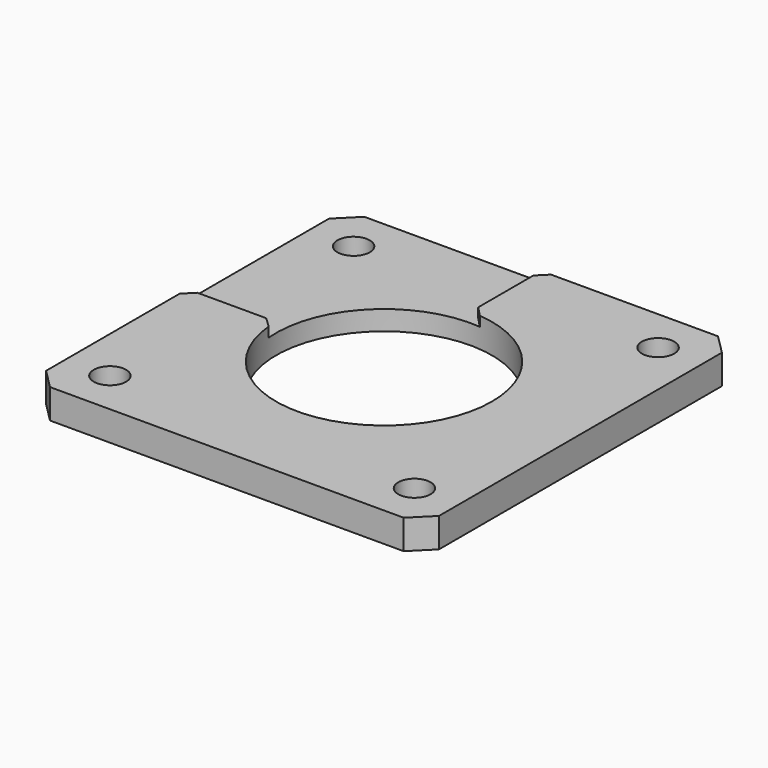
from build123d import *

# Parameters (mm, degrees)
SKETCH_W        = 40
SKETCH_H        = 40
PAD_DEPTH       = 3
SKETCH001_R     = 10.99
SKETCH001_R_2   = 1.65
POCKET_DEPTH    = 5
SKETCH003_W     = 37.54295
SKETCH003_H     = 30.927837
POCKET001_DEPTH = 1
CHAMFER_SIZE    = 2
CHAMFER001_SIZE = 1


with BuildPart() as part:
    # Sketch → Pad (new body)
    with BuildSketch(Plane.XY):
        Rectangle(SKETCH_W, SKETCH_H)
    extrude(amount=PAD_DEPTH)

    # Sketch001 (on Face6 of Pad) → Pocket (cut)
    with BuildSketch(Plane.XY.offset(3)):
        Circle(SKETCH001_R)
        with Locations((-15.5, 15.5)):
            Circle(SKETCH001_R_2)
        with Locations((15.5, 15.5)):
            Circle(SKETCH001_R_2)
        with Locations((-15.5, -15.5)):
            Circle(SKETCH001_R_2)
        with Locations((15.5, -15.5)):
            Circle(SKETCH001_R_2)
    extrude(amount=-POCKET_DEPTH, mode=Mode.SUBTRACT)

    # Sketch003 (on Face5 of Pocket) → Pocket001 (cut)
    with BuildSketch(Plane.XY.offset(3)):
        with Locations((-18.771475, 15.463919)):
            Rectangle(SKETCH003_W, SKETCH003_H)
    extrude(amount=-POCKET001_DEPTH, mode=Mode.SUBTRACT)

    # Chamfer
    chamfer_edges = [part.edges().sort_by_distance(p)[0] for p in [
        (-20, -20, 1.5),
        (20, -20, 1.5),
        (20, 20, 1.5),
        (-20, 20, 1),
    ]]
    chamfer(chamfer_edges, length=CHAMFER_SIZE)

    # Chamfer001
    chamfer001_edges = [part.edges().sort_by_distance(p)[0] for p in [
        (-10.99, 0, 2.5),
        (0, 20, 2.5),
        (0, 10.99, 2.5),
        (-20, 0, 2.5),
    ]]
    chamfer(chamfer001_edges, length=CHAMFER001_SIZE)


solid = part.part
